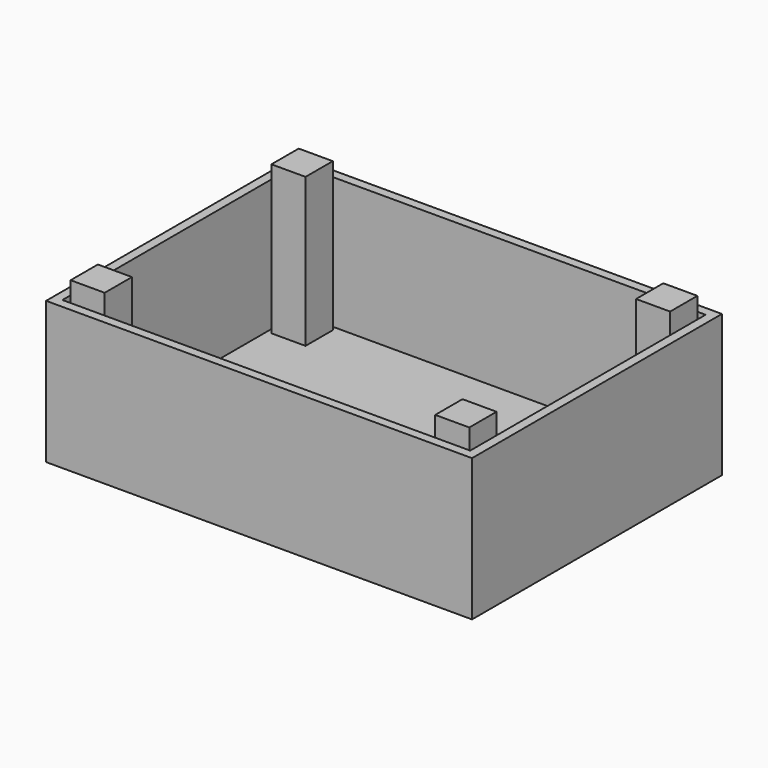
from build123d import *

# Parameters (mm, degrees)
F0_W     = 6
F0_H     = 6
F1_DEPTH = 28
F0_W_2   = 75
F0_H_2   = 55
F2_DEPTH = 25
F3_DEPTH = 1.8


with BuildPart() as f1:
    # F0 (on Top) → F1 (new body)
    with BuildSketch(Plane.XY):
        with Locations((-32.1, 22.1)):
            Rectangle(F0_W, F0_H)
    extrude(amount=F1_DEPTH)



with BuildPart() as f1b:
    # F0 (on Top) → F1, piece 2 (new body)
    with BuildSketch(Plane.XY):
        with Locations((32.1, 22.1)):
            Rectangle(F0_W, F0_H)
    extrude(amount=F1_DEPTH)


with BuildPart() as f1c:
    # F0 (on Top) → F1, piece 3 (new body)
    with BuildSketch(Plane.XY):
        with Locations((-32.1, -22.1)):
            Rectangle(F0_W, F0_H)
    extrude(amount=F1_DEPTH)


with BuildPart() as f1d:
    # F0 (on Top) → F1, piece 4 (new body)
    with BuildSketch(Plane.XY):
        with Locations((32.1, -22.1)):
            Rectangle(F0_W, F0_H)
    extrude(amount=F1_DEPTH)


with BuildPart() as f2:
    # F0 (on Top) → F2 (new body)
    with BuildSketch(Plane.XY):
        Rectangle(F0_W_2, F0_H_2)
        Polygon((-35.9, 25.1), (-35.9, 25.9), (-35.1, 25.9), (35.1, 25.9), (35.9, 25.9), (35.9, 25.1), (35.9, -25.1), (35.9, -25.9), (35.1, -25.9), (-35.1, -25.9), (-35.9, -25.9), (-35.9, -25.1), align=None, mode=Mode.SUBTRACT)
    extrude(amount=F2_DEPTH)


with BuildPart() as f1_1:
    add(f1.part)

    add(f1b.part)  # F3 merges F1b

    add(f1c.part)  # F3 merges F1c

    add(f1d.part)  # F3 merges F1d

    add(f2.part)  # F3 merges F2
    # F0 (on Top) → F3 (join)
    with BuildSketch(Plane.XY):
        Polygon((-35.1, 25.9), (-35.9, 25.9), (-35.9, 25.1), (-35.9, -25.1), (-35.9, -25.9), (-35.1, -25.9), (35.1, -25.9), (35.9, -25.9), (35.9, -25.1), (35.9, 25.1), (35.9, 25.9), (35.1, 25.9), align=None)
        with Locations((-32.1, -22.1)):
            Rectangle(F0_W, F0_H, mode=Mode.SUBTRACT)
        with Locations((32.1, -22.1)):
            Rectangle(F0_W, F0_H, mode=Mode.SUBTRACT)
        with Locations((-32.1, 22.1)):
            Rectangle(F0_W, F0_H, mode=Mode.SUBTRACT)
        with Locations((32.1, 22.1)):
            Rectangle(F0_W, F0_H, mode=Mode.SUBTRACT)
    extrude(amount=F3_DEPTH)


solid = f1_1.part
